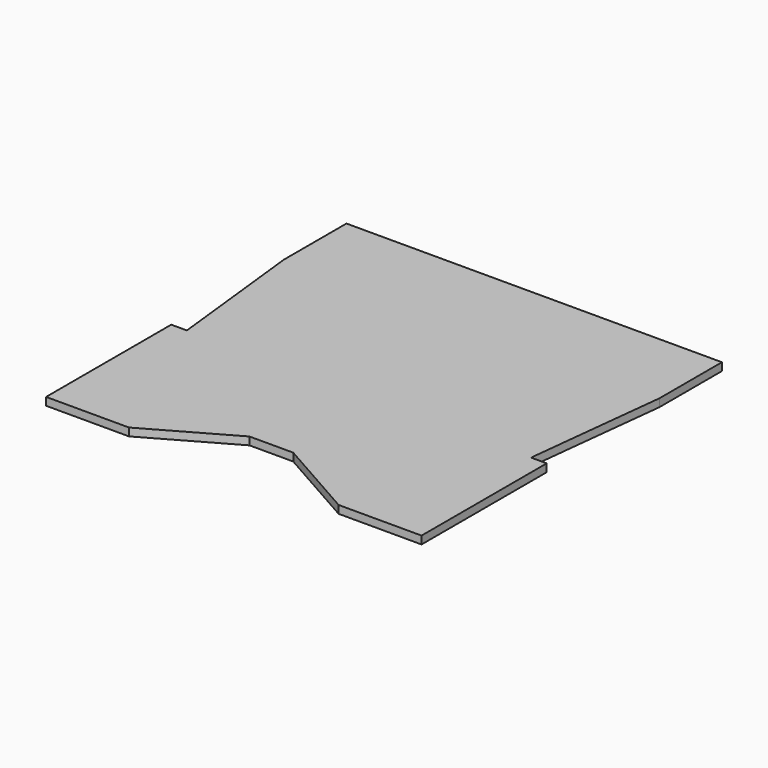
from build123d import *

# Parameters (mm, degrees)
F1_DEPTH = 3.175


with BuildPart() as f1:
    # F0 (on Top) → F1 (new body)
    with BuildSketch(Plane.XY):
        Polygon((42.545, -76.2), (76.2, -76.2), (76.2, -12.7), (69.85, -12.7), (76.2, 44.45), (76.2, 57.15), (76.2, 76.2), (31.75, 76.2), (-31.75, 76.2), (-76.2, 76.2), (-76.2, 44.45), (-69.85, -12.7), (-76.2, -12.7), (-76.2, -76.2), (-42.545, -76.2), (-8.89, -57.15), (8.89, -57.15), align=None)
    extrude(amount=F1_DEPTH)


solid = f1.part
